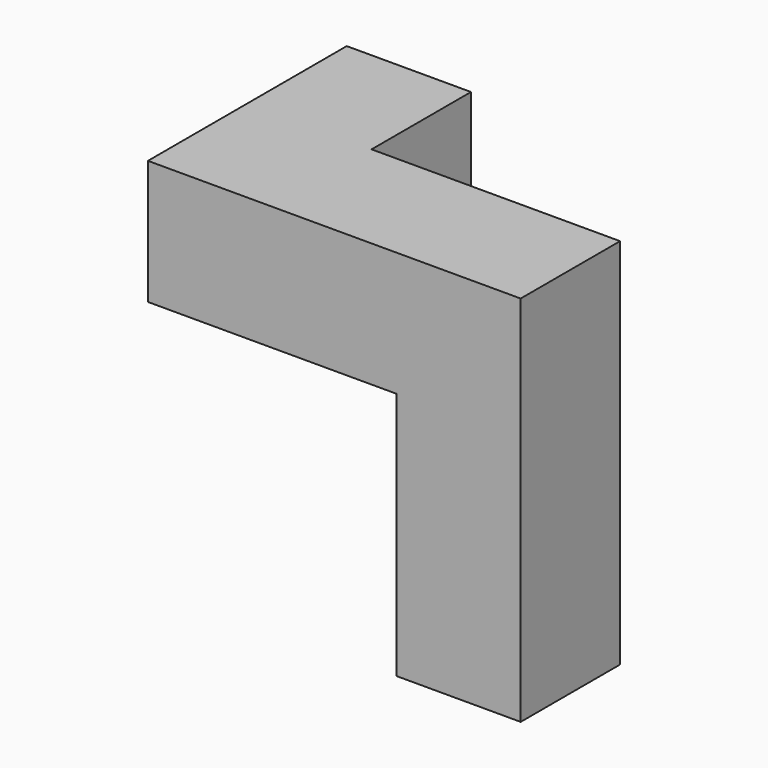
from build123d import *

# Parameters (mm, degrees)
F0_W     = 19.05
F0_H     = 19.05
F1_DEPTH = 19.05
F2_W     = 19.05
F2_H     = 19.05
F3_DEPTH = 19.05


with BuildPart() as f1:
    # F0 (on Front) → F1 (new body)
    with BuildSketch(Plane.XZ):
        with Locations((-49.0728, 35.650714)):
            Rectangle(F0_W, F0_H)
        with Locations((-30.0228, 35.650714)):
            Rectangle(F0_W, F0_H)
        with Locations((-10.9728, 35.650714)):
            Rectangle(F0_W, F0_H)
        with Locations((-10.9728, 16.600714)):
            Rectangle(F0_W, F0_H)
        with Locations((-10.9728, -2.449286)):
            Rectangle(F0_W, F0_H)
    extrude(amount=F1_DEPTH)

    # F2 (on face) → F3 (join)
    with BuildSketch(Plane(origin=(0, 0, 0), x_dir=(-1, 0, 0), z_dir=(0, 1, 0))):
        with Locations((49.0728, 35.650714)):
            Rectangle(F2_W, F2_H)
    extrude(amount=F3_DEPTH)


solid = f1.part
